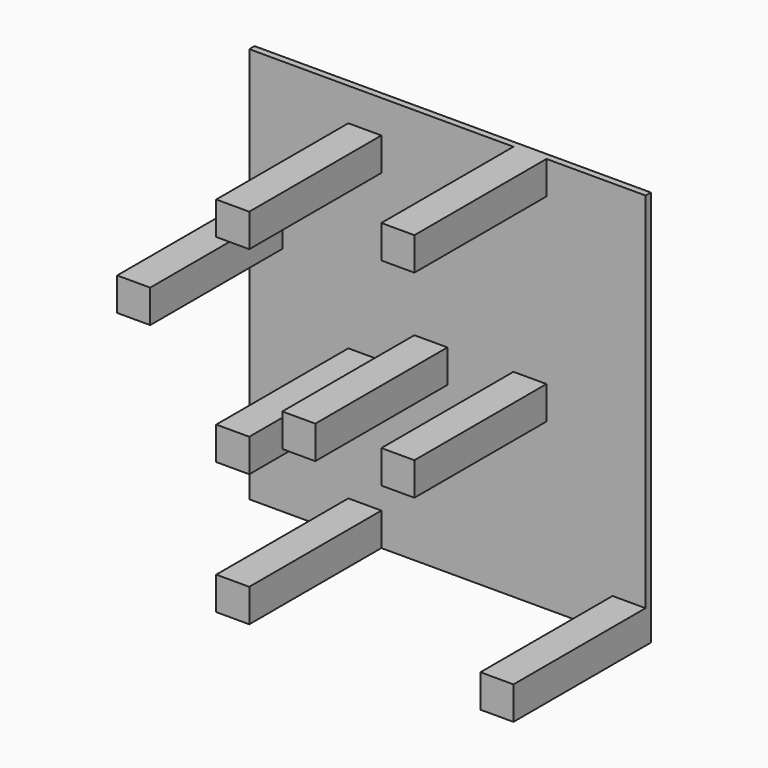
from build123d import *

# Parameters (mm, degrees)
F0_W     = 152.4
F0_H     = 152.4
F1_DEPTH = 152.4
F2_W     = 12.7
F2_H     = 12.7
F3_DEPTH = 63.5
F4_DEPTH = 149.86


with BuildPart() as f1:
    # F0 (on Front) → F1 (new body)
    with BuildSketch(Plane.XZ):
        with Locations((-76.2, 76.2)):
            Rectangle(F0_W, F0_H)
    extrude(amount=F1_DEPTH)

    # F2 (on face) → F3 (join)
    with BuildSketch(Plane.XZ.offset(152.4)):
        with Locations((-6.35, 6.35)):
            Rectangle(F2_W, F2_H)
        with Locations((-107.95, 6.35)):
            Rectangle(F2_W, F2_H)
        with Locations((-107.95, 133.35)):
            Rectangle(F2_W, F2_H)
        with Locations((-44.45, 69.85)):
            Rectangle(F2_W, F2_H)
        with Locations((-107.95, 57.15)):
            Rectangle(F2_W, F2_H)
        with Locations((-44.45, 146.05)):
            Rectangle(F2_W, F2_H)
        with Locations((-146.05, 95.25)):
            Rectangle(F2_W, F2_H)
        with Locations((-82.55, 69.85)):
            Rectangle(F2_W, F2_H)
    extrude(amount=F3_DEPTH)

    # F0 (on Front) → F4 (cut)
    with BuildSketch(Plane.XZ):
        with Locations((-76.2, 76.2)):
            Rectangle(F0_W, F0_H)
    extrude(amount=F4_DEPTH, mode=Mode.SUBTRACT)


solid = f1.part
